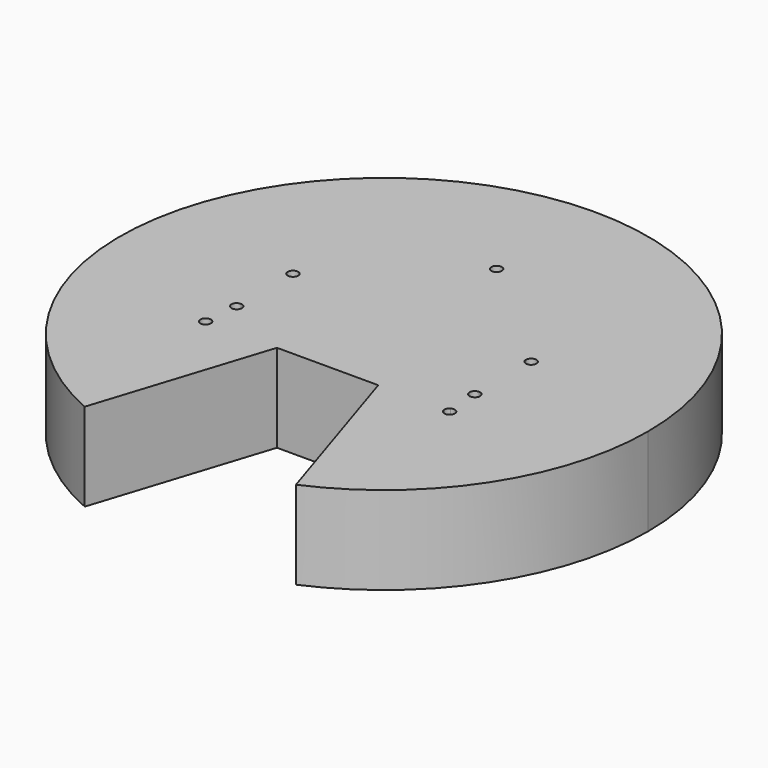
from build123d import *

# Parameters (mm, degrees)
F1_DEPTH = 25


with BuildPart() as f1:
    # F0 (on Top) → F1 (new body)
    with BuildSketch(Plane.XY):
        with BuildLine():
            ThreePointArc((30, -68.7386354243), (62.7495019901, -41.0791918129), (75, 0))
            ThreePointArc((75, 0), (-41.0791918129, 62.7495019901), (-30, -68.7386354243))
            Line((-30, -68.7386354243), (-14.3843060635, -20))
            Line((-14.3843060635, -20), (-33.1410161514, -20))
            ThreePointArc((-33.1410161514, -20), (-35.9400542571, -20.75), (-33.8910161514, -18.7009618943))
            Line((-33.8910161514, -18.7009618943), (-28.8675134595, -10))
            Line((-28.8675134595, -10), (-32.3247935798, -10))
            ThreePointArc((-32.3247935798, -10), (-34.8854537516, -11.0606601718), (-33.8247935798, -8.5))
            Line((-33.8247935798, -8.5), (-33.8247935798, 8.5))
            ThreePointArc((-33.8247935798, 8.5), (-34.8854537516, 11.0606601718), (-32.3247935798, 10))
            Line((-32.3247935798, 10), (-17.3205080757, 10))
            Line((-17.3205080757, 10), (-0.75, 38.7009618943))
            ThreePointArc((-0.75, 38.7009618943), (-0.75, 41.2990381057), (1.5, 40))
            ThreePointArc((1.5, 40), (1.2990381057, 39.25), (0.75, 38.7009618943))
            Line((0.75, 38.7009618943), (17.3205080757, 10))
            Line((17.3205080757, 10), (32.3247935798, 10))
            ThreePointArc((32.3247935798, 10), (33.8247935798, 11.5), (35.3247935798, 10))
            ThreePointArc((35.3247935798, 10), (34.8854537516, 8.9393398282), (33.8247935798, 8.5))
            Line((33.8247935798, 8.5), (33.8247935798, -8.5))
            ThreePointArc((33.8247935798, -8.5), (34.8854537516, -8.9393398282), (35.3247935798, -10))
            ThreePointArc((35.3247935798, -10), (33.8247935798, -11.5), (32.3247935798, -10))
            Line((32.3247935798, -10), (28.8675134595, -10))
            Line((28.8675134595, -10), (33.8910161514, -18.7009618943))
            ThreePointArc((33.8910161514, -18.7009618943), (35.3910161514, -18.7009618943), (36.1410161514, -20))
            ThreePointArc((36.1410161514, -20), (34.6410161514, -21.5), (33.1410161514, -20))
            Line((33.1410161514, -20), (14.3843060635, -20))
            Line((14.3843060635, -20), (30, -68.7386354243))
        make_face()
        with BuildLine():
            Line((11.1803398875, -10), (14.3843060635, -20))
            Line((14.3843060635, -20), (33.1410161514, -20))
            ThreePointArc((33.1410161514, -20), (33.3419780457, -19.25), (33.8910161514, -18.7009618943))
            Line((33.8910161514, -18.7009618943), (28.8675134595, -10))
            Line((28.8675134595, -10), (11.1803398875, -10))
        make_face()
        with BuildLine():
            Line((-33.1410161514, -20), (-14.3843060635, -20))
            Line((-14.3843060635, -20), (-11.1803398875, -10))
            Line((-11.1803398875, -10), (-28.8675134595, -10))
            Line((-28.8675134595, -10), (-33.8910161514, -18.7009618943))
            ThreePointArc((-33.8910161514, -18.7009618943), (-33.3419780457, -19.25), (-33.1410161514, -20))
        make_face()
        with BuildLine():
            Line((-32.3247935798, -10), (-28.8675134595, -10))
            Line((-28.8675134595, -10), (-17.3205080757, 10))
            Line((-17.3205080757, 10), (-32.3247935798, 10))
            ThreePointArc((-32.3247935798, 10), (-32.764133408, 8.9393398282), (-33.8247935798, 8.5))
            Line((-33.8247935798, 8.5), (-33.8247935798, -8.5))
            ThreePointArc((-33.8247935798, -8.5), (-32.764133408, -8.9393398282), (-32.3247935798, -10))
        make_face()
        with BuildLine():
            Line((-17.3205080757, 10), (-11.1803398875, 10))
            ThreePointArc((-11.1803398875, 10), (0, 15), (11.1803398875, 10))
            Line((11.1803398875, 10), (17.3205080757, 10))
            Line((17.3205080757, 10), (0.75, 38.7009618943))
            ThreePointArc((0.75, 38.7009618943), (0, 38.5), (-0.75, 38.7009618943))
            Line((-0.75, 38.7009618943), (-17.3205080757, 10))
        make_face()
        with BuildLine():
            Line((17.3205080757, 10), (28.8675134595, -10))
            Line((28.8675134595, -10), (32.3247935798, -10))
            ThreePointArc((32.3247935798, -10), (32.764133408, -8.9393398282), (33.8247935798, -8.5))
            Line((33.8247935798, -8.5), (33.8247935798, 8.5))
            ThreePointArc((33.8247935798, 8.5), (32.764133408, 8.9393398282), (32.3247935798, 10))
            Line((32.3247935798, 10), (17.3205080757, 10))
        make_face()
        with BuildLine():
            ThreePointArc((15, 0), (14.0125853844, -5.3523313466), (11.1803398875, -10))
            Line((11.1803398875, -10), (28.8675134595, -10))
            Line((28.8675134595, -10), (17.3205080757, 10))
            Line((17.3205080757, 10), (11.1803398875, 10))
            ThreePointArc((11.1803398875, 10), (14.0125853844, 5.3523313466), (15, 0))
        make_face()
        with BuildLine():
            ThreePointArc((-11.1803398875, 10), (-15, 0), (-11.1803398875, -10))
            Line((-11.1803398875, -10), (11.1803398875, -10))
            ThreePointArc((11.1803398875, -10), (14.0125853844, -5.3523313466), (15, 0))
            ThreePointArc((15, 0), (14.0125853844, 5.3523313466), (11.1803398875, 10))
            Line((11.1803398875, 10), (-11.1803398875, 10))
        make_face()
        with BuildLine():
            Line((-28.8675134595, -10), (-11.1803398875, -10))
            ThreePointArc((-11.1803398875, -10), (-15, 0), (-11.1803398875, 10))
            Line((-11.1803398875, 10), (-17.3205080757, 10))
            Line((-17.3205080757, 10), (-28.8675134595, -10))
        make_face()
        with BuildLine():
            ThreePointArc((11.1803398875, 10), (0, 15), (-11.1803398875, 10))
            Line((-11.1803398875, 10), (11.1803398875, 10))
        make_face()
        with BuildLine():
            Line((11.1803398875, -10), (-11.1803398875, -10))
            ThreePointArc((-11.1803398875, -10), (0, -15), (11.1803398875, -10))
        make_face()
        with BuildLine():
            Line((-11.1803398875, -10), (-14.3843060635, -20))
            Line((-14.3843060635, -20), (14.3843060635, -20))
            Line((14.3843060635, -20), (11.1803398875, -10))
            ThreePointArc((11.1803398875, -10), (0, -15), (-11.1803398875, -10))
        make_face()
    extrude(amount=F1_DEPTH)


solid = f1.part
